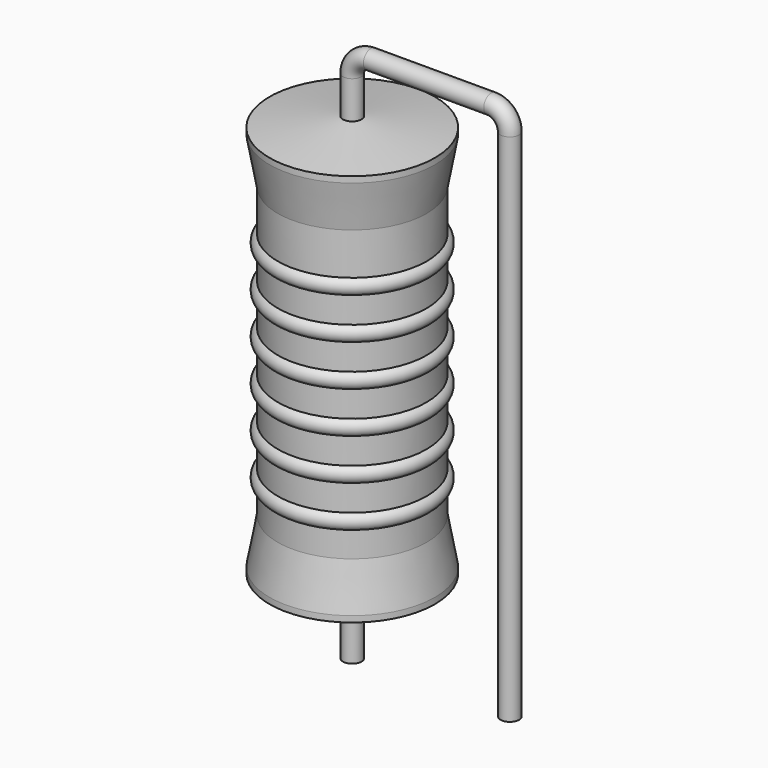
from build123d import *

# Parameters (mm, degrees)
SKETCH_R = 0.45


with BuildPart() as revolution:
    # Sketch002 → Revolution (revolve)
    with BuildSketch(Plane.XZ):
        Polygon((0, 0.1), (0, 20.1), (0.3375, 20.1), (4, 19.6), (4, 19.3075), (3.6, 17.1), (3.6, 3.1), (4, 0.8925), (4, 0.6), (0.3375, 0.1), align=None)
    revolve(axis=Axis((0, 0, 0), (0, 0, 1)))


with BuildPart() as sweep_body:
    # Sweep: sweep along a path in Sketch001
    with BuildLine(Plane.XZ) as sweep_path:
        Line((0, -3), (0, 21.9))
        ThreePointArc((0, 21.9), (0.263601, 22.536393), (0.899991, 22.8))
        Line((0.899991, 22.8), (6.72, 22.8))
        ThreePointArc((6.72, 22.8), (7.356396, 22.536396), (7.62, 21.9))
        Line((7.62, 21.9), (7.62, -3))
    # Sketch → Sweep (sweep)
    with BuildSketch(Plane.XY.offset(-2)):
        Circle(SKETCH_R)
    sweep(path=sweep_path.line)


with BuildPart() as l_axial_l20_0mm_d8_0mm_p7_62mm_vertical:
    # Sketch003 → Revolution001 (revolve)
    with BuildSketch(Plane.XZ):
        with BuildLine():
            Line((3.2, 16.3), (3.2, 3.1))
            Line((3.2, 3.1), (3.44, 3.1))
            Line((3.44, 3.1), (3.44, 4.3))
            ThreePointArc((3.44, 4.3), (3.84, 4.7), (3.44, 5.1))
            Line((3.44, 5.1), (3.44, 6.3))
            ThreePointArc((3.44, 6.3), (3.84, 6.7), (3.44, 7.1))
            Line((3.44, 7.1), (3.44, 8.3))
            ThreePointArc((3.44, 8.3), (3.84, 8.7), (3.44, 9.1))
            Line((3.44, 9.1), (3.44, 10.3))
            ThreePointArc((3.44, 10.3), (3.84, 10.7), (3.44, 11.1))
            Line((3.44, 11.1), (3.44, 12.3))
            ThreePointArc((3.44, 12.3), (3.84, 12.7), (3.44, 13.1))
            Line((3.44, 13.1), (3.44, 14.3))
            ThreePointArc((3.44, 14.3), (3.84, 14.7), (3.44, 15.1))
            Line((3.44, 16.3), (3.44, 15.1))
            Line((3.2, 16.3), (3.44, 16.3))
        make_face()
    revolve(axis=Axis((0, 0, 0), (0, 0, 1)))

    add(revolution.part)
    add(sweep_body.part)


solid = l_axial_l20_0mm_d8_0mm_p7_62mm_vertical.part
